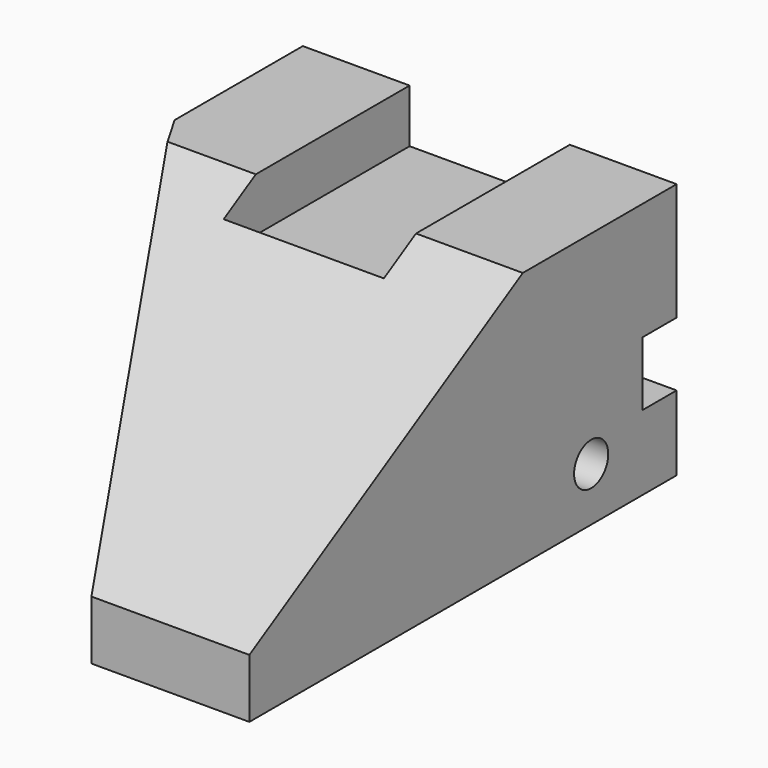
from build123d import *

# Parameters (mm, degrees)
F1_DEPTH = 120
F3_DEPTH = 175.001
F4_W     = 75
F4_H     = 108.811668
F5_DEPTH = 25
F6_W     = 20
F6_H     = 30
F6_R     = 10
F7_DEPTH = 175.001


with BuildPart() as f1:
    # F0 (on Top) → F1 (new body)
    with BuildSketch(Plane.XY):
        Polygon((-29.908918, 96.077366), (-79.908918, 96.077366), (-79.908918, 21.077366), (21.127379, -153.922634), (95.091082, -153.922634), (95.091082, 96.077366), (32.76388, 96.077366), align=None)
    extrude(amount=F1_DEPTH)

    # F2 (on face) → F3 (cut, through all)
    with BuildSketch(Plane.YZ.offset(95.091082)):
        Polygon((-153.922634, 27.623957), (6.077366, 120), (-153.922634, 120), align=None)
    extrude(amount=-F3_DEPTH, mode=Mode.SUBTRACT)

    # F4 (on face) → F5 (cut)
    with BuildSketch(Plane.XY.offset(120)):
        with Locations((7.591082, 41.671532)):
            Rectangle(F4_W, F4_H)
    extrude(amount=-F5_DEPTH, mode=Mode.SUBTRACT)

    # F6 (on face) → F7 (cut, through all)
    with BuildSketch(Plane(origin=(-79.908918, 0, 0), x_dir=(0, -1, 0), z_dir=(-1, 0, 0))):
        with Locations((-86.077366, 50)):
            Rectangle(F6_W, F6_H)
        with Locations((-46.077366, 25)):
            Circle(F6_R)
    extrude(amount=-F7_DEPTH, mode=Mode.SUBTRACT)


solid = f1.part
